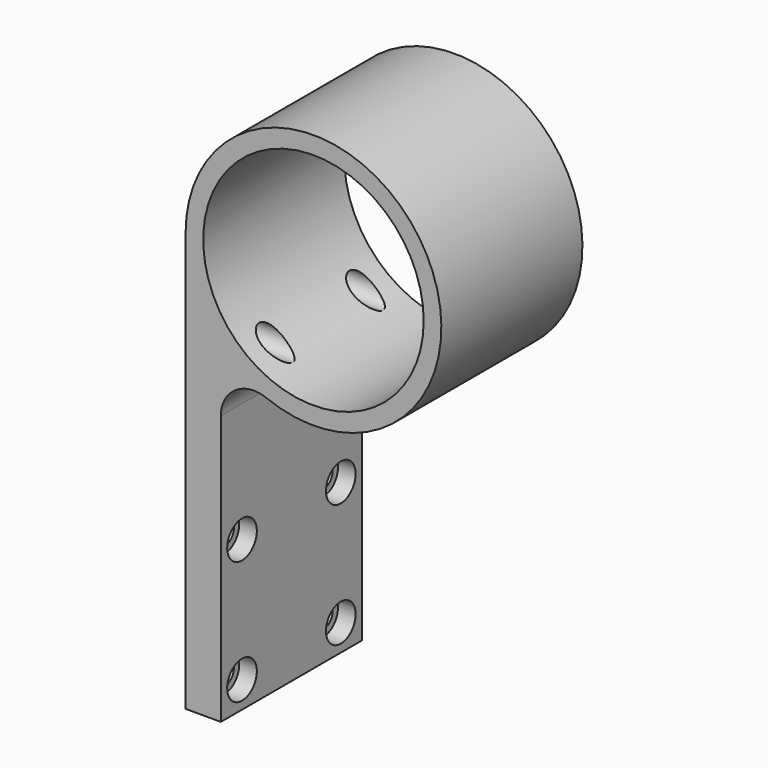
from build123d import *

# Parameters (mm, degrees)
F0_R           = 15.875
F1_DEPTH       = 25.4
F2_R           = 4.7625
F4_D           = 3.4544
F4_DEPTH       = 12.7
F6_D           = 3.4544
F6_CBORE_D     = 5.334
F6_CBORE_DEPTH = 2.54


with BuildPart() as f1:
    # F0 (on Front) → F1 (new body)
    with BuildSketch(Plane.XZ):
        with BuildLine():
            Line((-13.335, -60.325), (-13.335, -12.7))
            ThreePointArc((-13.335, -12.7), (17.097898, 6.839159), (-18.415, 0))
            Line((-18.415, 0), (-18.415, -60.325))
            Line((-18.415, -60.325), (-13.335, -60.325))
        make_face()
        Circle(F0_R, mode=Mode.SUBTRACT)
    extrude(amount=F1_DEPTH)

    # F2
    f2_edges = [f1.edges().sort_by_distance(p)[0] for p in [
        (-13.335, -12.7, -12.7),
    ]]
    fillet(f2_edges, radius=F2_R)

    # F4
    with Locations(Plane(origin=(-18.415, 0, 0), x_dir=(0, -1, 0), z_dir=(-1, 0, 0))):
        with Locations((4.572, -12.7), (20.828, -12.7)):
            Hole(F4_D / 2, depth=F4_DEPTH)

    # F6 (through all)
    with Locations(Plane.YZ.offset(-13.335)):
        with Locations((-21.59, -38.735), (-3.81, -38.735), (-21.59, -56.515), (-3.81, -56.515)):
            CounterBoreHole(F6_D / 2, F6_CBORE_D / 2, F6_CBORE_DEPTH)


solid = f1.part
